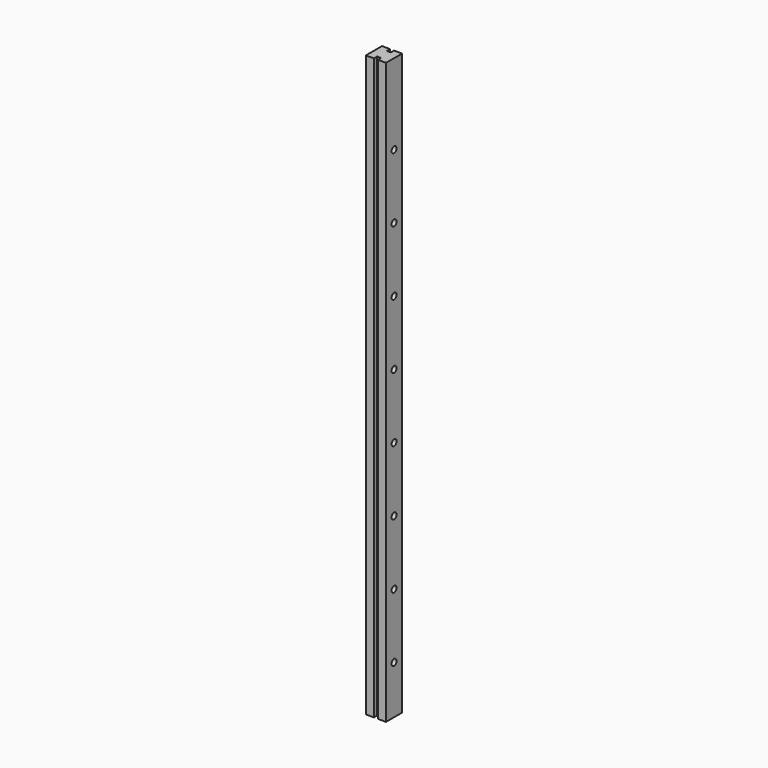
from build123d import *

# Parameters (mm, degrees)
F1_DEPTH = 914.4
F2_R     = 4.8895
F3_DEPTH = 31.751


with BuildPart() as f1:
    # F0 (on Top) → F1 (new body)
    with BuildSketch(Plane.XY):
        Polygon((3.175, -15.875), (15.875, -15.875), (15.875, 15.875), (3.175, 15.875), (3.175, 9.525), (-3.175, 9.525), (-3.175, 15.875), (-15.875, 15.875), (-15.875, -15.875), (-3.175, -15.875), (-3.175, -9.525), (3.175, -9.525), align=None)
    extrude(amount=F1_DEPTH)

    # F2 (on face) → F3 (cut, through all)
    with BuildSketch(Plane(origin=(-15.875, 0, 0), x_dir=(0, -1, 0), z_dir=(-1, 0, 0))):
        with Locations((0, 787.4)):
            Circle(F2_R)
        with Locations((0, 685.8)):
            Circle(F2_R)
        with Locations((0, 584.2)):
            Circle(F2_R)
        with Locations((0, 482.6)):
            Circle(F2_R)
        with Locations((0, 381)):
            Circle(F2_R)
        with Locations((0, 279.4)):
            Circle(F2_R)
        with Locations((0, 177.8)):
            Circle(F2_R)
        with Locations((0, 76.2)):
            Circle(F2_R)
    extrude(amount=-F3_DEPTH, mode=Mode.SUBTRACT)


solid = f1.part
